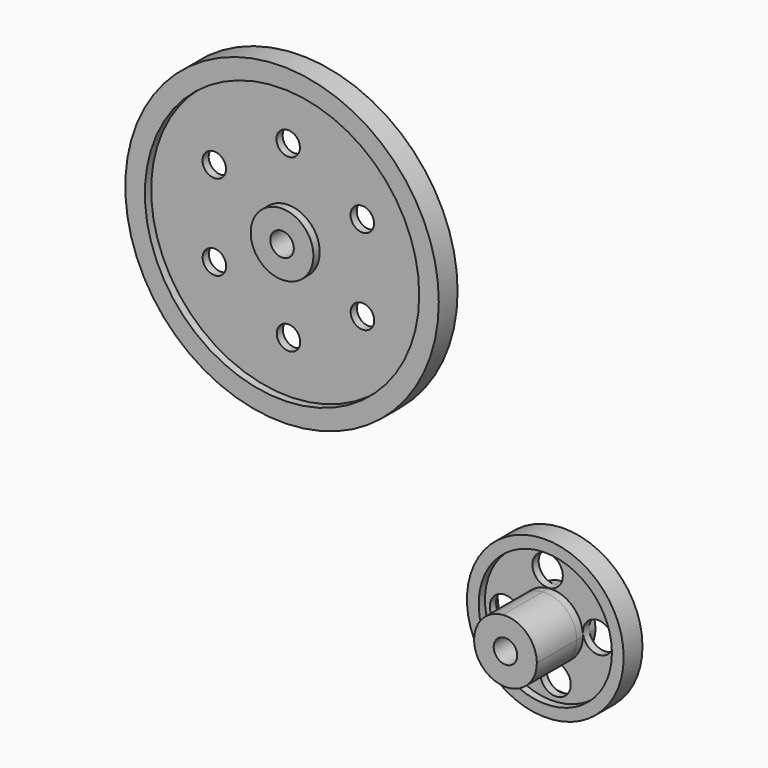
from build123d import *

# Parameters (mm, degrees)
F0_R     = 20
F0_R_2   = 17.5
F1_DEPTH = 1.4986
F0_R_3   = 10
F0_R_4   = 8.5
F0_R_5   = 4
F0_R_6   = 1.5
F2_DEPTH = 0.4953
F0_R_7   = 1.9381825154
F3_DEPTH = 6.35


with BuildPart() as f1:
    # F0 (on Front) → F1 (new body, symmetric)
    with BuildSketch(Plane.XZ):
        with Locations((-85.8959655269, 43.2936050879)):
            Circle(F0_R)
        with Locations((-85.8959655269, 43.2936050879)):
            Circle(F0_R_2, mode=Mode.SUBTRACT)
    extrude(amount=F1_DEPTH, both=True)



with BuildPart() as f1b:
    # F0 (on Front) → F1, piece 2 (new body, symmetric)
    with BuildSketch(Plane.XZ):
        with Locations((-52.308330414, 11.0661446855)):
            Circle(F0_R_3)
        with Locations((-52.308330414, 11.0661446855)):
            Circle(F0_R_4, mode=Mode.SUBTRACT)
    extrude(amount=F1_DEPTH, both=True)



with BuildPart() as f1c:
    # F0 (on Front) → F1, piece 3 (new body, symmetric)
    with BuildSketch(Plane.XZ):
        with Locations((-85.8959655269, 43.2936050879)):
            Circle(F0_R_5)
        with Locations((-85.8959655269, 43.2936050879)):
            Circle(F0_R_6, mode=Mode.SUBTRACT)
    extrude(amount=F1_DEPTH, both=True)


with BuildPart() as f1d:
    # F0 (on Front) → F1, piece 4 (new body, symmetric)
    with BuildSketch(Plane.XZ):
        with BuildLine():
            ThreePointArc((-52.6213379004, 15.0538791693), (-55.0238386588, 8.129136859), (-48.308330414, 11.0661446855))
            ThreePointArc((-48.308330414, 11.0661446855), (-49.5928221693, 14.003152512), (-52.6213379004, 15.0538791693))
        make_face()
        with Locations((-52.308330414, 11.0661446855)):
            Circle(F0_R_6, mode=Mode.SUBTRACT)
    extrude(amount=F1_DEPTH, both=True)


with BuildPart() as f1_1:
    add(f1.part)

    add(f1c.part)  # F2 merges F1c
    # F0 (on Front) → F2 (join, symmetric)
    with BuildSketch(Plane.XZ):
        with Locations((-85.8959655269, 43.2936050879)):
            Circle(F0_R_2)
        with Locations((-95.3299110805, 37.8244597476)):
            Circle(F0_R_6, mode=Mode.SUBTRACT)
        with Locations((-85.876519502, 32.3889959104)):
            Circle(F0_R_6, mode=Mode.SUBTRACT)
        with Locations((-76.4425739484, 37.8581412507)):
            Circle(F0_R_6, mode=Mode.SUBTRACT)
        with Locations((-85.8959655269, 43.2936050879)):
            Circle(F0_R_5, mode=Mode.SUBTRACT)
        with Locations((-95.3493571054, 48.7290689251)):
            Circle(F0_R_6, mode=Mode.SUBTRACT)
        with Locations((-85.9154115517, 54.1982142654)):
            Circle(F0_R_6, mode=Mode.SUBTRACT)
        with Locations((-76.4620199733, 48.7627504282)):
            Circle(F0_R_6, mode=Mode.SUBTRACT)
    extrude(amount=F2_DEPTH, both=True)


with BuildPart() as f1b_1:
    add(f1b.part)

    add(f1d.part)  # F2#2 merges F1d
    # F0 (on Front) → F2, piece 2 (join, symmetric)
    with BuildSketch(Plane.XZ):
        with Locations((-52.308330414, 11.0661446855)):
            Circle(F0_R_4)
        with Locations((-58.2501758135, 10.5598734687)):
            Circle(F0_R_7, mode=Mode.SUBTRACT)
        with Locations((-51.8020591973, 5.1242992861)):
            Circle(F0_R_7, mode=Mode.SUBTRACT)
        with BuildLine():
            ThreePointArc((-52.6213379004, 15.0538791693), (-49.5928221693, 14.003152512), (-48.308330414, 11.0661446855))
            ThreePointArc((-48.308330414, 11.0661446855), (-55.0238386588, 8.129136859), (-52.6213379004, 15.0538791693))
        make_face(mode=Mode.SUBTRACT)
        with Locations((-46.3664850146, 11.5724159022)):
            Circle(F0_R_7, mode=Mode.SUBTRACT)
        with BuildLine():
            ThreePointArc((-50.8764191154, 17.0079900849), (-51.3780519565, 15.7068842105), (-52.6232891679, 15.0792726342))
            ThreePointArc((-52.6232891679, 15.0792726342), (-54.7470872761, 16.8594953252), (-52.9202056544, 18.9432934857))
            ThreePointArc((-52.9202056544, 18.9432934857), (-51.4819592198, 18.4153335638), (-50.8764191154, 17.0079900849))
        make_face(mode=Mode.SUBTRACT)
    extrude(amount=F2_DEPTH, both=True)


with BuildPart() as f3:
    # F3 (new): a face of the model
    f3_faces = [f1b_1.part.faces().sort_by_distance(p)[0] for p in [
        (-49.6696283411, -1.4986, 13.9200813859),
    ]]
    extrude(f3_faces, amount=F3_DEPTH)


solid = Compound([f1_1.part, f1b_1.part, f3.part])
